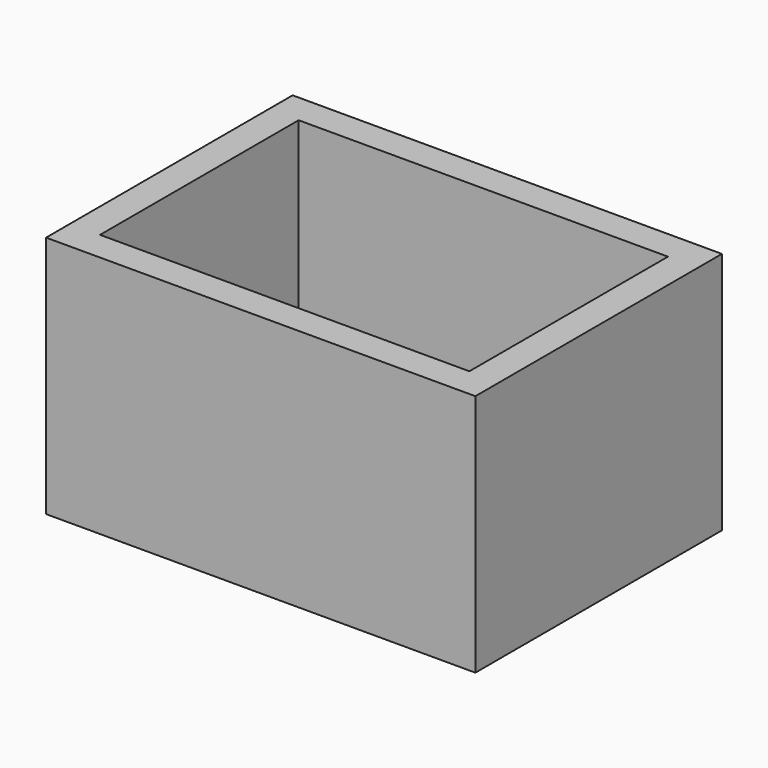
from build123d import *

# Parameters (mm, degrees)
F0_W     = 90.932008
F0_H     = 65.277999
F0_W_2   = 78.232009
F0_H_2   = 52.578
F1_DEPTH = 51.562
F2_W     = 5.036706
F2_H     = 9.344577
F3_DEPTH = 8.6614


with BuildPart() as f1:
    # F0 (on Top) → F1 (new body)
    with BuildSketch(Plane.XY):
        with Locations((7.493002, -12.7)):
            Rectangle(F0_W, F0_H)
        with Locations((7.493002, -12.7)):
            Rectangle(F0_W_2, F0_H_2, mode=Mode.SUBTRACT)
    extrude(amount=F1_DEPTH)

    # F2 (on face) → F3 (cut)
    with BuildSketch(Plane(origin=(0, 19.939, 0), x_dir=(-1, 0, 0), z_dir=(0, 1, 0))):
        with Locations((-31.16013, 4.672288)):
            Rectangle(F2_W, F2_H)
    extrude(amount=-F3_DEPTH, mode=Mode.SUBTRACT)


solid = f1.part
